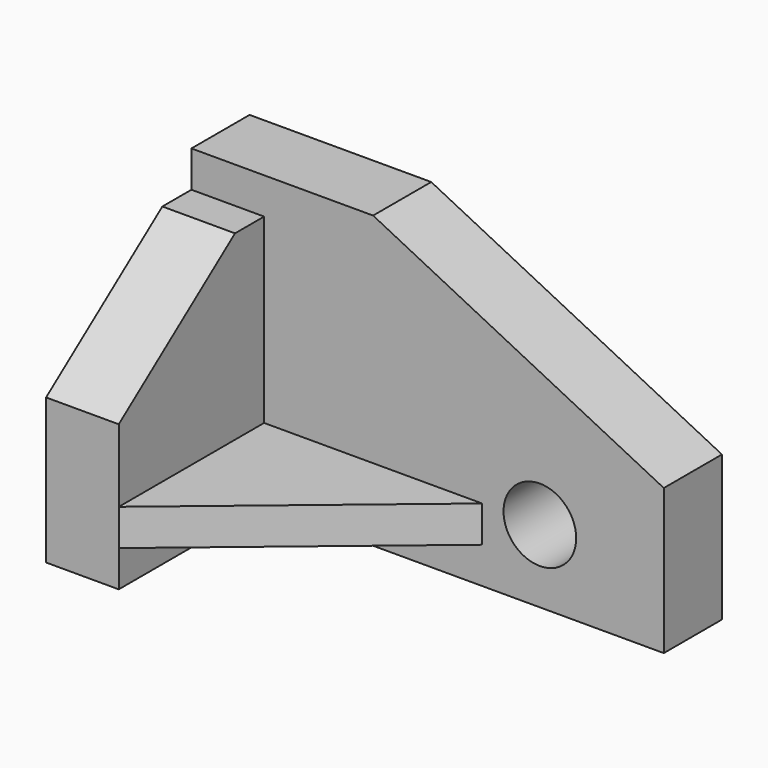
from build123d import *

# Parameters (mm, degrees)
F0_R     = 5
F1_DEPTH = 10
F0_W     = 30
F0_H     = 5
F2_DEPTH = 35
F4_DEPTH = 10
F6_DEPTH = 10


with BuildPart() as f1:
    # F0 (on Front) → F1 (new body)
    with BuildSketch(Plane.XZ):
        Polygon((-7.922936, 30), (-32.922936, 30), (-32.922936, 25), (-22.922936, 25), (-22.922936, 7.5), (-22.922936, 0), (7.077064, 0), (7.077064, -5), (-22.922936, -5), (-22.922936, -10), (32.077064, -10), (32.077064, 10), align=None)
        with Locations((15.024597, 0)):
            Circle(F0_R, mode=Mode.SUBTRACT)
    extrude(amount=F1_DEPTH)

    # F0 (on Front) → F2 (join)
    with BuildSketch(Plane.XZ):
        Polygon((-22.922936, 25), (-32.922936, 25), (-32.922936, -10), (-22.922936, -10), (-22.922936, -5), (-22.922936, 0), (-22.922936, 7.5), align=None)
        with Locations((-7.922936, -2.5)):
            Rectangle(F0_W, F0_H)
    extrude(amount=F2_DEPTH)

    # F3 (on face) → F4 (cut)
    with BuildSketch(Plane(origin=(-32.922936, 0, 0), x_dir=(0, -1, 0), z_dir=(-1, 0, 0))):
        Polygon((35, 25), (15, 25), (35, 10), align=None)
    extrude(amount=-F4_DEPTH, mode=Mode.SUBTRACT)

    # F5 (on face) → F6 (cut)
    with BuildSketch(Plane.XY):
        Polygon((7.077064, -10), (-22.922936, -35), (7.077064, -35), align=None)
    extrude(amount=-F6_DEPTH, mode=Mode.SUBTRACT)


solid = f1.part
